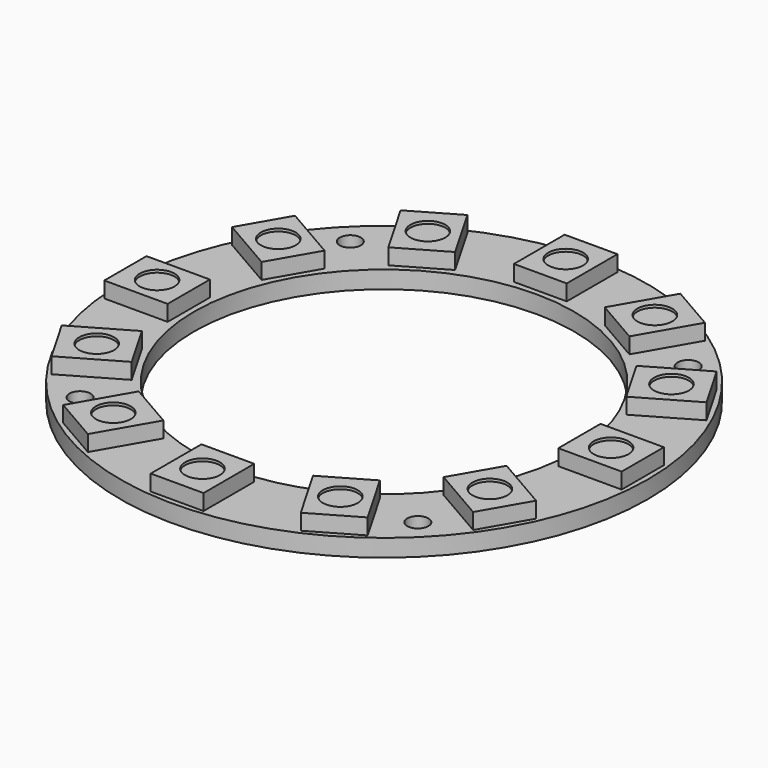
from build123d import *

# Parameters (mm, degrees)
SKETCH_R     = 25
SKETCH_R_2   = 18
SKETCH_R_3   = 1
PAD_DEPTH    = 1.65
SKETCH001_W  = 5
SKETCH001_H  = 6
PAD001_DEPTH = 1.5
SKETCH002_R  = 1.65
POCKET_DEPTH = 0.25
ARRAY_COUNT  = 12


with BuildPart() as body:
    # Sketch → Pad (new body)
    with BuildSketch(Plane.XY):
        Circle(SKETCH_R)
        Circle(SKETCH_R_2, mode=Mode.SUBTRACT)
        with Locations((16, 16)):
            Circle(SKETCH_R_3, mode=Mode.SUBTRACT)
        with Locations((-16, 16)):
            Circle(SKETCH_R_3, mode=Mode.SUBTRACT)
        with Locations((-16, -16)):
            Circle(SKETCH_R_3, mode=Mode.SUBTRACT)
        with Locations((16, -16)):
            Circle(SKETCH_R_3, mode=Mode.SUBTRACT)
    extrude(amount=PAD_DEPTH)


with BuildPart() as array:
    # Sketch001 (on Face1 of CopyPad) → Pad001 (new body)
    with BuildSketch(Plane.XY.offset(1.65)):
        with Locations((0, 21.5)):
            Rectangle(SKETCH001_W, SKETCH001_H)
    extrude(amount=PAD001_DEPTH)

    # Sketch002 (on Face6 of Pad001) → Pocket (cut)
    with BuildSketch(Plane.XY.offset(3.15)):
        with Locations((0, 21.5)):
            Circle(SKETCH002_R)
    extrude(amount=-POCKET_DEPTH, mode=Mode.SUBTRACT)

    # Array: Array ×12 about axis
    array_axis = Axis((0, 0, 0), (0, 0, 1))


with BuildPart() as array_1:
    add(array.part)
    for i in range(1, ARRAY_COUNT):
        add(array.part.rotate(array_axis, i * 360 / ARRAY_COUNT))


solid = Compound([body.part, array_1.part])
